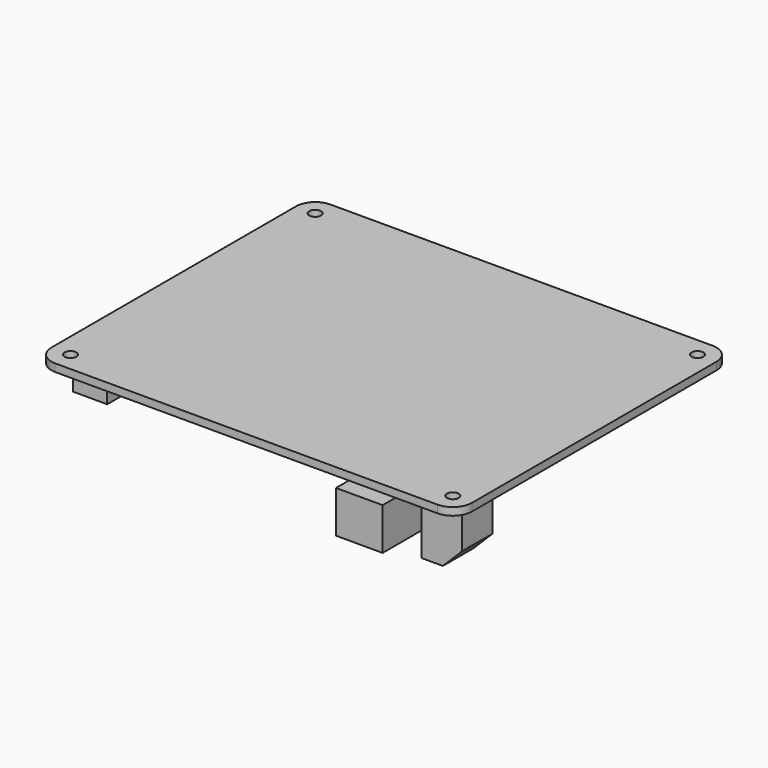
from build123d import *

# Parameters (mm, degrees)
F0_R     = 1.55
F1_DEPTH = 2
F2_W     = 12.2
F2_H     = 16.5
F3_DEPTH = 11
F2_W_2   = 10.6
F2_H_2   = 10
F4_DEPTH = 17
F5_SIZE  = 5
F2_W_3   = 9
F2_H_3   = 20.2
F6_DEPTH = 9


with BuildPart() as f1:
    # F0 (on Top) → F1 (new body)
    with BuildSketch(Plane.XY):
        with BuildLine():
            Line((50, 45), (-50, 45))
            ThreePointArc((-50, 45), (-53.535534, 43.535534), (-55, 40))
            Line((-55, 40), (-55, -40))
            ThreePointArc((-55, -40), (-53.535534, -43.535534), (-50, -45))
            Line((-50, -45), (50, -45))
            ThreePointArc((50, -45), (53.535534, -43.535534), (55, -40))
            Line((55, -40), (55, 40))
            ThreePointArc((55, 40), (53.535534, 43.535534), (50, 45))
        make_face()
        with Locations((-50, -40)):
            Circle(F0_R, mode=Mode.SUBTRACT)
        with Locations((50, -40)):
            Circle(F0_R, mode=Mode.SUBTRACT)
        with Locations((-50, 40)):
            Circle(F0_R, mode=Mode.SUBTRACT)
        with Locations((50, 40)):
            Circle(F0_R, mode=Mode.SUBTRACT)
    extrude(amount=F1_DEPTH)

    # F2 (on Top) → F3 (join)
    with BuildSketch(Plane.XY):
        with Locations((32.9, -40.95)):
            Rectangle(F2_W, F2_H)
        with Locations((32.9, -40.95)):
            Rectangle(F2_W, F2_H)
    extrude(amount=-F3_DEPTH)

    # F2 (on Top) → F4 (join)
    with BuildSketch(Plane.XY):
        with Locations((44.7, -32)):
            Rectangle(F2_W_2, F2_H_2)
    extrude(amount=-F4_DEPTH)

    # F5
    f5_edges = [f1.edges().sort_by_distance(p)[0] for p in [
        (50, -32, -17),
    ]]
    chamfer(f5_edges, length=F5_SIZE)

    # F2 (on Top) → F6 (join)
    with BuildSketch(Plane.XY):
        with Locations((-48.1, -25.9)):
            Rectangle(F2_W_3, F2_H_3)
        with Locations((-48.1, -4.9)):
            Rectangle(F2_W_3, F2_H_3)
    extrude(amount=-F6_DEPTH)


solid = f1.part
